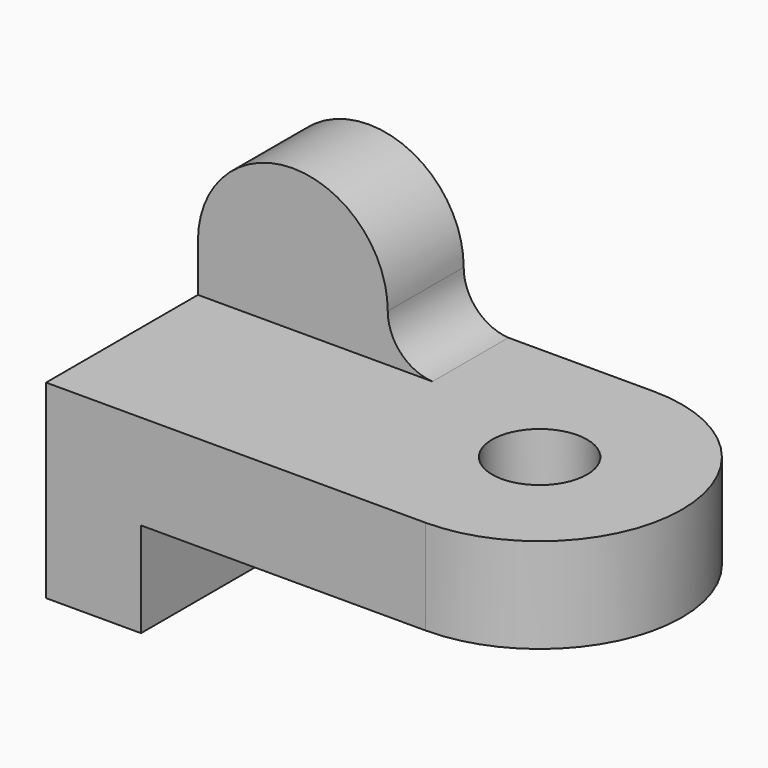
from build123d import *

# Parameters (mm, degrees)
F0_R     = 6.35
F1_DEPTH = 12.7
F0_W     = 12.7
F0_H     = 38.1
F2_DEPTH = 25.4
F4_DEPTH = 12.7


with BuildPart() as f1:
    # F0 (on Top) → F1 (new body)
    with BuildSketch(Plane.XY):
        with BuildLine():
            Line((12.7, 38.1), (12.7, 0))
            Line((12.7, 0), (50.8, 0))
            ThreePointArc((50.8, 0), (69.85, 19.05), (50.8, 38.1))
            Line((50.8, 38.1), (12.7, 38.1))
        make_face()
        with Locations((50.8, 19.05)):
            Circle(F0_R, mode=Mode.SUBTRACT)
    extrude(amount=-F1_DEPTH)

    # F0 (on Top) → F2 (join)
    with BuildSketch(Plane.XY):
        with Locations((6.35, 19.05)):
            Rectangle(F0_W, F0_H)
    extrude(amount=-F2_DEPTH)

    # F3 (on face) → F4 (join)
    with BuildSketch(Plane(origin=(0, 38.1, 0), x_dir=(-1, 0, 0), z_dir=(0, 1, 0))):
        with BuildLine():
            Line((-25.4, 0), (0, 0))
            Line((0, 0), (0, 6.35))
            ThreePointArc((0, 6.35), (-12.7, 19.05), (-25.4, 6.35))
            ThreePointArc((-25.4, 6.35), (-27.127977, 1.985086), (-31.382129, 0))
            Line((-31.382129, 0), (-25.4, 0))
        make_face()
    extrude(amount=-F4_DEPTH)


solid = f1.part
